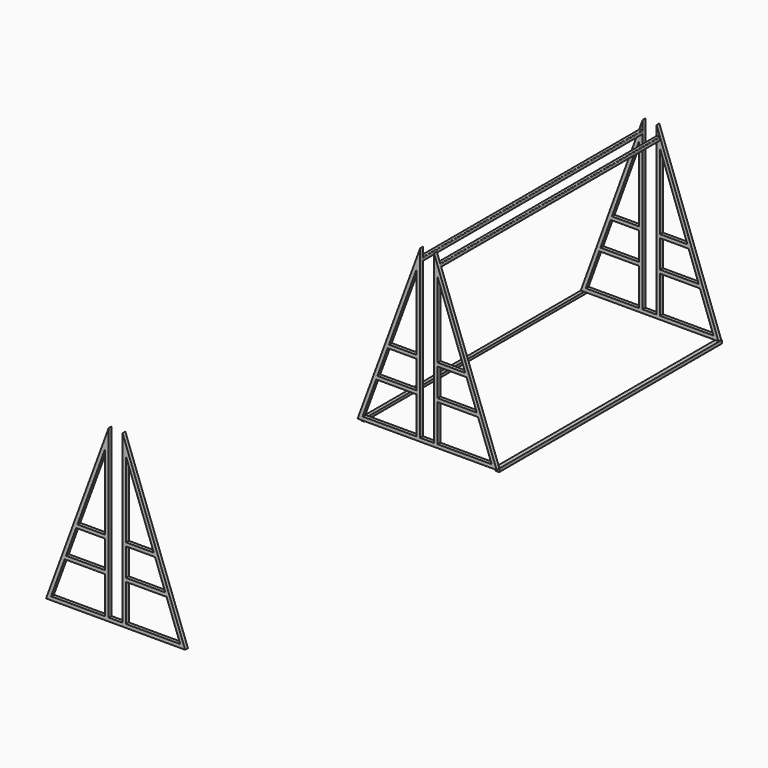
from build123d import *

# Parameters (mm, degrees)
PAD_DEPTH    = 19.05
PAD003_DEPTH = 1524
PAD001_DEPTH = 19.05
PAD002_DEPTH = 19.05


with BuildPart() as body:
    # Sketch → Pad (new body)
    with BuildSketch(Plane.XZ):
        Polygon((-377.03125, 0), (377.03125, 0), (38.1, 933.45), (38.1, 19.05), (-38.1, 19.05), (-38.1, 933.45), align=None)
        Polygon((-276.066442, 222.25), (-57.15, 222.25), (-57.15, 19.05), (-349.847394, 19.05), align=None, mode=Mode.SUBTRACT)
        Polygon((-269.149477, 241.3), (-213.813763, 393.7), (-57.15, 393.7), (-57.15, 241.3), align=None, mode=Mode.SUBTRACT)
        Polygon((-206.896799, 412.75), (-57.15, 825.167413), (-57.15, 412.75), align=None, mode=Mode.SUBTRACT)
        Polygon((57.15, 19.05), (349.847394, 19.05), (276.066442, 222.25), (57.15, 222.25), align=None, mode=Mode.SUBTRACT)
        Polygon((57.15, 241.3), (269.149477, 241.3), (213.813763, 393.7), (57.15, 393.7), align=None, mode=Mode.SUBTRACT)
        Polygon((57.15, 412.75), (206.896799, 412.75), (57.15, 825.167413), align=None, mode=Mode.SUBTRACT)
    extrude(amount=PAD_DEPTH)

    # Sketch003 → Pad003 (join)
    with BuildSketch(Plane.XZ):
        with BuildLine():
            Line((-377.03125, 0), (-358.380943, 0))
            Line((-358.380943, 0), (-358.380943, -12.554307))
            ThreePointArc((-361.428943, -15.602307), (-359.273682, -14.709568), (-358.380943, -12.554307))
            Line((-361.428943, -15.602307), (-373.98325, -15.602307))
            ThreePointArc((-377.03125, -12.554307), (-376.138511, -14.709568), (-373.98325, -15.602307))
            Line((-377.03125, -12.554307), (-377.03125, 0))
        make_face()
        with BuildLine():
            Line((381, 0), (358.823071, 0))
            Line((358.823071, 0), (358.823071, -16.080929))
            ThreePointArc((358.823071, -16.080929), (359.71581, -18.23619), (361.871071, -19.128929))
            Line((361.871071, -19.128929), (377.952, -19.128929))
            ThreePointArc((377.952, -19.128929), (380.107261, -18.23619), (381, -16.080929))
            Line((381, -16.080929), (381, 0))
        make_face()
        with BuildLine():
            Line((54.250448, 882.128777), (41.296448, 882.128777))
            ThreePointArc((41.296448, 882.128777), (39.141187, 881.236039), (38.248448, 879.080777))
            Line((38.248448, 879.080777), (38.248448, 866.126777))
            ThreePointArc((38.248448, 866.126777), (39.141187, 863.971516), (41.296448, 863.078777))
            Line((41.296448, 863.078777), (54.250448, 863.078777))
            ThreePointArc((54.250448, 863.078777), (56.40571, 863.971516), (57.298448, 866.126777))
            Line((57.298448, 866.126777), (57.298448, 879.080777))
            ThreePointArc((57.298448, 879.080777), (56.40571, 881.236039), (54.250448, 882.128777))
        make_face()
        with BuildLine():
            Line((-54.250448, 882.128777), (-41.296448, 882.128777))
            ThreePointArc((-38.248448, 879.080777), (-39.141187, 881.236039), (-41.296448, 882.128777))
            Line((-38.248448, 879.080777), (-38.248448, 866.126777))
            ThreePointArc((-41.296448, 863.078777), (-39.141187, 863.971516), (-38.248448, 866.126777))
            Line((-41.296448, 863.078777), (-54.250448, 863.078777))
            ThreePointArc((-57.298448, 866.126777), (-56.40571, 863.971516), (-54.250448, 863.078777))
            Line((-57.298448, 866.126777), (-57.298448, 879.080777))
            ThreePointArc((-54.250448, 882.128777), (-56.40571, 881.236039), (-57.298448, 879.080777))
        make_face()
    extrude(amount=PAD003_DEPTH)


with BuildPart() as pad001:
    # Sketch001 → Pad001 (new body)
    with BuildSketch(Plane.XZ.offset(1524)):
        Polygon((-381, 0), (381, 0), (38.1, 933.45), (38.1, 19.05), (-38.1, 19.05), (-38.1, 933.45), align=None)
        Polygon((-279.062465, 222.25), (-57.15, 222.25), (-57.15, 19.05), (-353.707363, 19.05), align=None, mode=Mode.SUBTRACT)
        Polygon((-272.064506, 241.3), (-216.080833, 393.7), (-57.15, 393.7), (-57.15, 241.3), align=None, mode=Mode.SUBTRACT)
        Polygon((-209.082874, 412.75), (-57.15, 826.345045), (-57.15, 412.75), align=None, mode=Mode.SUBTRACT)
        Polygon((57.15, 19.05), (353.707363, 19.05), (279.062465, 222.25), (57.15, 222.25), align=None, mode=Mode.SUBTRACT)
        Polygon((57.15, 241.3), (272.064506, 241.3), (216.080833, 393.7), (57.15, 393.7), align=None, mode=Mode.SUBTRACT)
        Polygon((57.15, 412.75), (209.082874, 412.75), (57.15, 826.345045), align=None, mode=Mode.SUBTRACT)
    extrude(amount=PAD001_DEPTH)


with BuildPart() as pad002:
    # Sketch002 → Pad002 (new body)
    with BuildSketch(Plane.XZ.offset(3657.6)):
        Polygon((-381, 0), (381, 0), (38.1, 933.45), (38.1, 19.05), (-38.1, 19.05), (-38.1, 933.45), align=None)
        Polygon((-279.062465, 222.25), (-57.15, 222.25), (-57.15, 19.05), (-353.707363, 19.05), align=None, mode=Mode.SUBTRACT)
        Polygon((-272.064506, 241.3), (-216.080833, 393.7), (-57.15, 393.7), (-57.15, 241.3), align=None, mode=Mode.SUBTRACT)
        Polygon((-209.082874, 412.75), (-57.15, 826.345045), (-57.15, 412.75), align=None, mode=Mode.SUBTRACT)
        Polygon((57.15, 19.05), (353.707363, 19.05), (279.062465, 222.25), (57.15, 222.25), align=None, mode=Mode.SUBTRACT)
        Polygon((57.15, 241.3), (272.064506, 241.3), (216.080833, 393.7), (57.15, 393.7), align=None, mode=Mode.SUBTRACT)
        Polygon((57.15, 412.75), (209.082874, 412.75), (57.15, 826.345045), align=None, mode=Mode.SUBTRACT)
    extrude(amount=PAD002_DEPTH)


solid = Compound([body.part, pad001.part, pad002.part])
